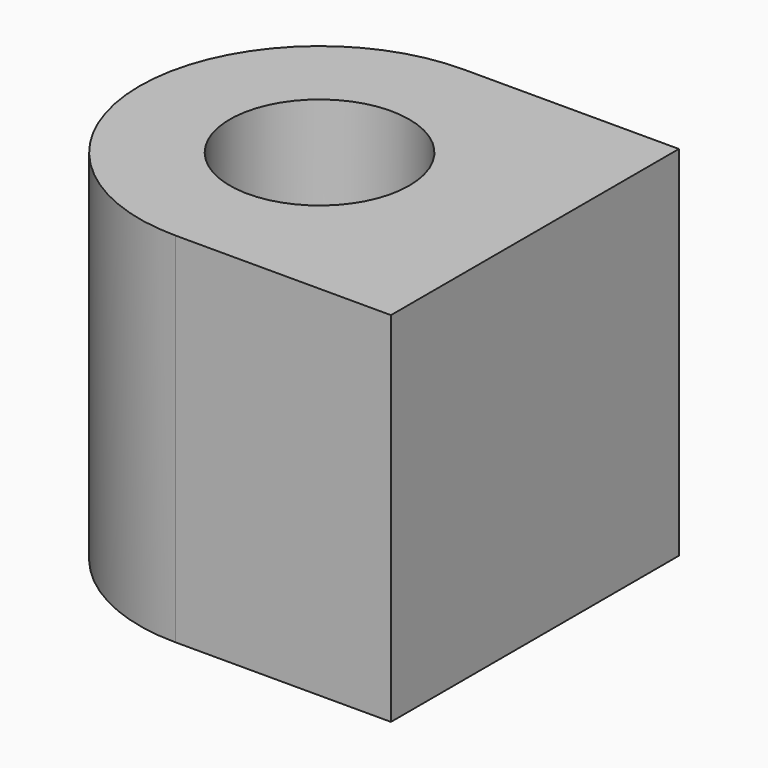
from build123d import *

# Parameters (mm, degrees)
F0_R     = 7.517415
F1_DEPTH = 30


with BuildPart() as f1:
    # F0 (on Top) → F1 (new body)
    with BuildSketch(Plane.XY):
        with BuildLine():
            Line((-18.041797, 0), (0, 0))
            Line((0, 0), (0, 11.458979))
            Line((0, 11.458979), (0, 18.77322))
            Line((0, 18.77322), (0, 30.150931))
            Line((0, 30.150931), (-18.041797, 30.150931))
            ThreePointArc((-18.041797, 30.150931), (-33.117263, 15.075466), (-18.041797, 0))
        make_face()
        with Locations((-18.041797, 15.075466)):
            Circle(F0_R, mode=Mode.SUBTRACT)
    extrude(amount=F1_DEPTH)


solid = f1.part
